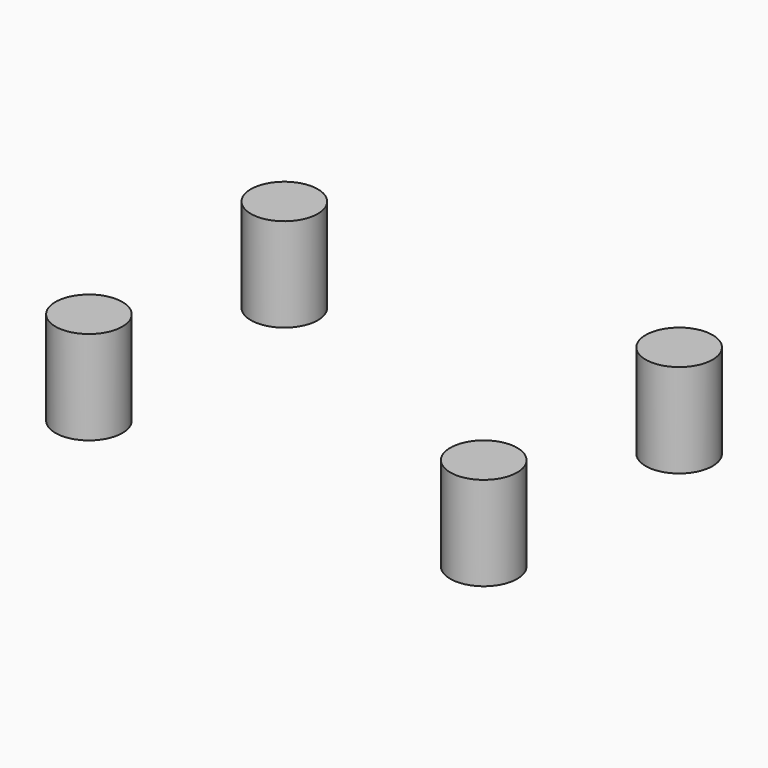
from build123d import *

# Parameters (mm, degrees)
CYLINDER_R        = 5
CYLINDER_DEPTH    = 14
CYLINDER001_R     = 5
CYLINDER001_DEPTH = 14
CYLINDER002_R     = 5
CYLINDER002_DEPTH = 14
CYLINDER003_R     = 5
CYLINDER003_DEPTH = 14


with BuildPart() as cylinder:
    # Cylinder → Cylinder (new body)
    with BuildSketch(Plane(origin=(7.5, 75.5, 2), x_dir=(1, 0, 0), z_dir=(0, 0, 1))):
        Circle(CYLINDER_R)
    extrude(amount=CYLINDER_DEPTH)


with BuildPart() as cylinder001:
    # Cylinder001 → Cylinder001 (new body)
    with BuildSketch(Plane(origin=(66.5, 39, 2), x_dir=(1, 0, 0), z_dir=(0, 0, 1))):
        Circle(CYLINDER001_R)
    extrude(amount=CYLINDER001_DEPTH)


with BuildPart() as cylinder002:
    # Cylinder002 → Cylinder002 (new body)
    with BuildSketch(Plane(origin=(7.5, 39, 2), x_dir=(1, 0, 0), z_dir=(0, 0, 1))):
        Circle(CYLINDER002_R)
    extrude(amount=CYLINDER002_DEPTH)


with BuildPart() as obj1:
    # Cylinder003 → Cylinder003 (new body)
    with BuildSketch(Plane(origin=(66.5, 75.5, 2), x_dir=(1, 0, 0), z_dir=(0, 0, 1))):
        Circle(CYLINDER003_R)
    extrude(amount=CYLINDER003_DEPTH)

    # Fusion: union Cylinder, Cylinder001, Cylinder002
    add(cylinder.part)
    add(cylinder001.part)
    add(cylinder002.part)


solid = obj1.part
